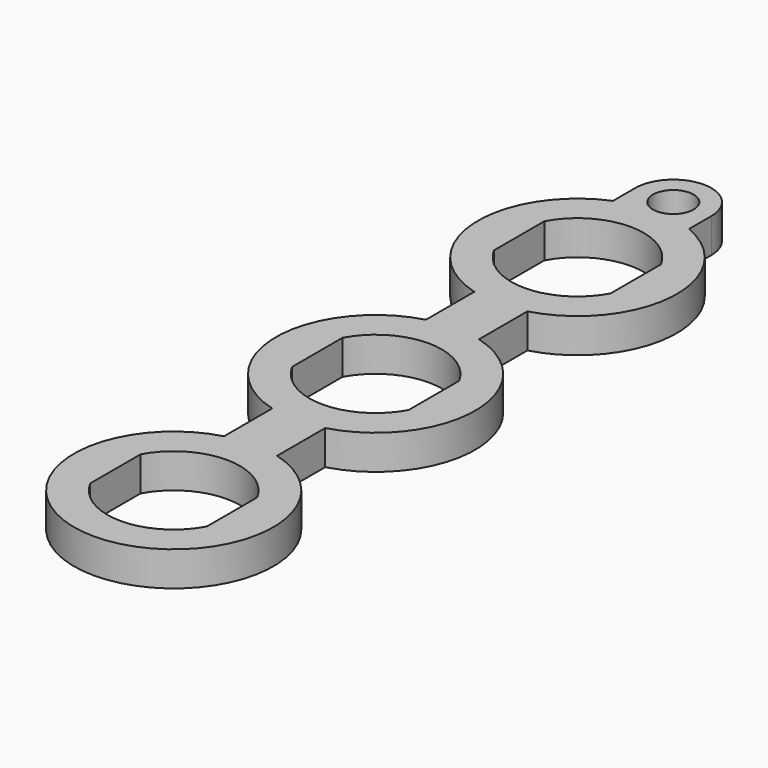
from build123d import *

# Parameters (mm, degrees)
F1_DEPTH = 1.651


with BuildPart() as f1:
    # F0 (on Top) → F1 (new body)
    with BuildSketch(Plane.XY):
        with BuildLine():
            ThreePointArc((2.18e-08, 4.7625), (0.9284865122, 4.6711153964), (1.8213407221, 4.4004686369))
            Line((1.8213407221, 4.4004686369), (1.8213407221, 5.7371021248))
            ThreePointArc((1.8213407221, 5.7371021248), (0, 7.5584428469), (-1.8213407221, 5.7371021248))
            Line((-1.8213407221, 5.7371021248), (-1.8213407221, 4.4004686369))
            ThreePointArc((-1.8213407221, 4.4004686369), (-0.9284864908, 4.6711154007), (2.18e-08, 4.7625))
        make_face()
        with BuildLine():
            ThreePointArc((0.9746021248, 5.7371021248), (0.6891477791, 5.0479543611), (2.18e-08, 4.7625))
            ThreePointArc((2.18e-08, 4.7625), (-0.6891477791, 6.4262498886), (0.9746021248, 5.7371021248))
        make_face(mode=Mode.SUBTRACT)
        with BuildLine():
            Line((1.27, -7.4871799271), (1.27, -4.5900442536))
            ThreePointArc((1.27, -4.5900442536), (4.7535699609, -0.2915113661), (1.8213407221, 4.4004686369))
            ThreePointArc((1.8213407221, 4.4004686369), (0.9284865122, 4.6711153964), (2.18e-08, 4.7625))
            ThreePointArc((2.18e-08, 4.7625), (-0.9284864908, 4.6711154007), (-1.8213407221, 4.4004686369))
            ThreePointArc((-1.8213407221, 4.4004686369), (-4.7535699609, -0.2915113661), (-1.27, -4.5900442536))
            Line((-1.27, -4.5900442536), (-1.27, -7.4871799271))
            ThreePointArc((-1.27, -7.4871799271), (-4.7752, -12.0904), (-1.27, -16.6936200729))
            Line((-1.27, -16.6936200729), (-1.27, -19.5775799271))
            ThreePointArc((-1.27, -19.5775799271), (0, -28.956), (1.27, -19.5775799271))
            Line((1.27, -19.5775799271), (1.27, -16.6936200729))
            ThreePointArc((1.27, -16.6936200729), (4.7752, -12.0904), (1.27, -7.4871799271))
        make_face()
        with BuildLine():
            ThreePointArc((-2.794, -22.6727585549), (0, -21.0058), (2.794, -22.6727585549))
            Line((2.794, -22.6727585549), (2.794, -25.6888414451))
            ThreePointArc((2.794, -25.6888414451), (0, -27.3558), (-2.794, -25.6888414451))
            Line((-2.794, -25.6888414451), (-2.794, -22.6727585549))
        make_face(mode=Mode.SUBTRACT)
        with BuildLine():
            ThreePointArc((-2.794, -10.5823585549), (0, -8.9154), (2.794, -10.5823585549))
            Line((2.794, -10.5823585549), (2.794, -13.5984414451))
            ThreePointArc((2.794, -13.5984414451), (0, -15.2654), (-2.794, -13.5984414451))
            Line((-2.794, -13.5984414451), (-2.794, -10.5823585549))
        make_face(mode=Mode.SUBTRACT)
        with BuildLine():
            ThreePointArc((-2.794, 1.5080414451), (0, 3.175), (2.794, 1.5080414451))
            Line((2.794, 1.5080414451), (2.794, -1.5080414451))
            ThreePointArc((2.794, -1.5080414451), (0, -3.175), (-2.794, -1.5080414451))
            Line((-2.794, -1.5080414451), (-2.794, 1.5080414451))
        make_face(mode=Mode.SUBTRACT)
    extrude(amount=F1_DEPTH)


solid = f1.part
